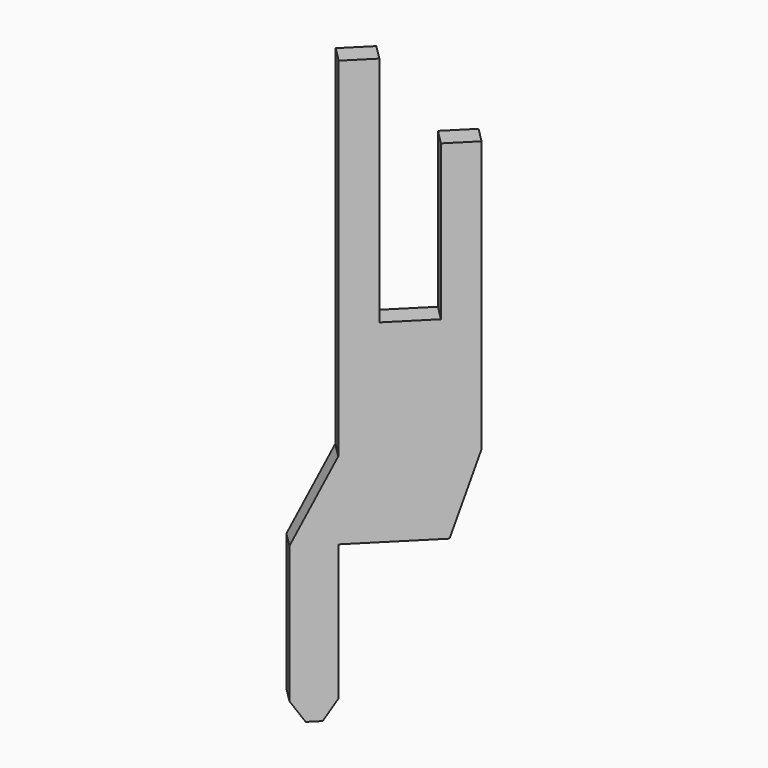
from build123d import *

# Parameters (mm, degrees)
BOX034_W                = 2.9
BOX034_H                = 0.55
BOX034_DEPTH            = 15
BOX035_W                = 1.25
BOX035_H                = 0.55
BOX035_DEPTH            = 6
BOX036_W                = 1.1
BOX036_H                = 0.6
BOX036_DEPTH            = 2
BOX038_W                = 1
BOX038_H                = 0.55
BOX038_DEPTH            = 6
BOX037_W                = 3
BOX037_H                = 0.55
BOX037_DEPTH            = 4
CHAMFER014_SIZE2        = 0.65
CHAMFER014_SIZE         = 2
CHAMFER015_ANGLE        = 33
CHAMFER015_SIZE         = 0.5
CHAMFER017_ANGLE        = 56
CHAMFER017_SIZE         = 0.33
CHAMFER016_ANGLE        = 26.565
CHAMFER016_SIZE         = 1.98
BODY022_PLACEMENT_ANGLE = 45


with BuildPart() as part:
    # Box034 → Box034 (join)
    with BuildSketch(Plane(origin=(-4.95, -0.275, 0), x_dir=(1, 0, 0), z_dir=(0, 0, 1))):
        with Locations((1.45, 0.275)):
            Rectangle(BOX034_W, BOX034_H)
    extrude(amount=BOX034_DEPTH)

    # Box035 → Box035 (cut)
    with BuildSketch(Plane(origin=(-4.125, -0.275, 9), x_dir=(1, 0, 0), z_dir=(0, 0, 1))):
        with Locations((0.625, 0.275)):
            Rectangle(BOX035_W, BOX035_H)
    extrude(amount=BOX035_DEPTH, mode=Mode.SUBTRACT)

    # Box036 → Box036 (cut)
    with BuildSketch(Plane(origin=(-3, -0.3, 13), x_dir=(1, 0, 0), z_dir=(0, 0, 1))):
        with Locations((0.55, 0.3)):
            Rectangle(BOX036_W, BOX036_H)
    extrude(amount=BOX036_DEPTH, mode=Mode.SUBTRACT)

    # Box038 → Box038 (join)
    with BuildSketch(Plane(origin=(-5.95, -0.275, 0), x_dir=(1, 0, 0), z_dir=(0, 0, 1))):
        with Locations((0.5, 0.275)):
            Rectangle(BOX038_W, BOX038_H)
    extrude(amount=BOX038_DEPTH)

    # Box037 → Box037 (cut)
    with BuildSketch(Plane(origin=(-4.95, 0.275, 4), x_dir=(1, 0, 0), z_dir=(0, 0, -1))):
        with Locations((1.5, 0.275)):
            Rectangle(BOX037_W, BOX037_H)
    extrude(amount=BOX037_DEPTH, mode=Mode.SUBTRACT)

    # Chamfer014
    chamfer014_edges = [part.edges().sort_by_distance(p)[0] for p in [
        (-2.05, 0, 4),
    ]]
    chamfer014_side = part.faces().sort_by_distance((-2.05, 0, 8.5))[0]
    chamfer(chamfer014_edges, length=CHAMFER014_SIZE, length2=CHAMFER014_SIZE2, reference=chamfer014_side)

    # Chamfer015
    chamfer015_edges = [part.edges().sort_by_distance(p)[0] for p in [
        (-4.95, 0, 0),
    ]]
    chamfer015_side = part.faces().sort_by_distance((-4.95, 0, 2))[0]
    chamfer(chamfer015_edges, length=CHAMFER015_SIZE, angle=CHAMFER015_ANGLE, reference=chamfer015_side)

    # Chamfer017
    chamfer017_edges = [part.edges().sort_by_distance(p)[0] for p in [
        (-5.95, 0, 0),
    ]]
    chamfer017_side = part.faces().sort_by_distance((-5.612352, 0, 0))[0]
    chamfer(chamfer017_edges, length=CHAMFER017_SIZE, angle=CHAMFER017_ANGLE, reference=chamfer017_side)

    # Chamfer016
    chamfer016_edges = [part.edges().sort_by_distance(p)[0] for p in [
        (-5.95, 0, 6),
    ]]
    chamfer016_side = part.faces().sort_by_distance((-5.95, 0, 3.244623))[0]
    chamfer(chamfer016_edges, length=CHAMFER016_SIZE, angle=CHAMFER016_ANGLE, reference=chamfer016_side)


with BuildPart() as part_1:
    # Body022 placement: moved
    add(part.part.moved(Location((0, 0, -4))).rotate(Axis((0, 0, -4), (0, 0, 1)), BODY022_PLACEMENT_ANGLE))


solid = part_1.part
